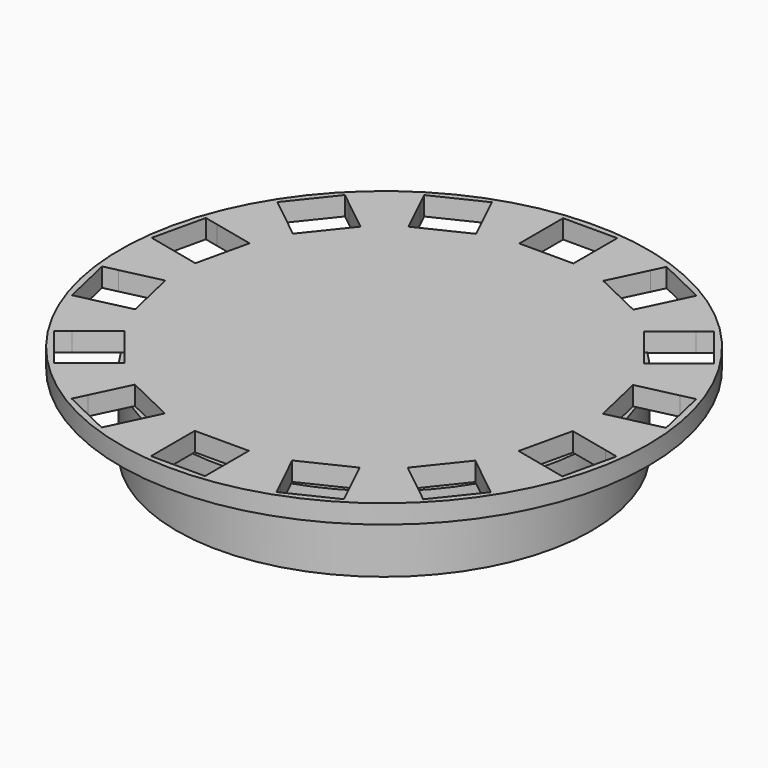
from build123d import *

# Parameters (mm, degrees)
F0_R     = 9
F1_DEPTH = 1
F3_R     = 11
F4_DEPTH = 4
F6_R     = 14
F7_DEPTH = 1


with BuildPart() as f1:
    # F0 (on Top) → F1 (new body)
    with BuildSketch(Plane.XY):
        Circle(F0_R)
    extrude(amount=F1_DEPTH)

    # F3 (on offset) → F4 (join)
    with BuildSketch(Plane.XY.offset(1)):
        Circle(F3_R)
    extrude(amount=F4_DEPTH)

    # F6 (on offset) → F7 (join)
    with BuildSketch(Plane.XY.offset(5)):
        Circle(F6_R)
        with BuildLine():
            ThreePointArc((12.91588, 1.476495), (12.978953, 0.739444), (13, 0))
            ThreePointArc((13, 0), (12.978953, -0.739444), (12.91588, -1.476495))
            Line((12.91588, -1.476495), (13.642398, -1.642317))
            Line((13.642398, -1.642317), (13.003951, -4.439538))
            Line((13.003951, -4.439538), (12.277433, -4.273715))
            ThreePointArc((12.277433, -4.273715), (11.712595, -5.640489), (10.996179, -6.934266))
            Line((10.996179, -6.934266), (11.578801, -7.398892))
            Line((11.578801, -7.398892), (9.789912, -9.642088))
            Line((9.789912, -9.642088), (9.20729, -9.177463))
            ThreePointArc((9.20729, -9.177463), (8.105367, -10.163809), (6.89855, -11.018621))
            Line((6.89855, -11.018621), (7.221881, -11.690024))
            Line((7.221881, -11.690024), (4.63686, -12.934905))
            Line((4.63686, -12.934905), (4.31353, -12.263501))
            ThreePointArc((4.31353, -12.263501), (2.892772, -12.674063), (1.434578, -12.920603))
            Line((1.434578, -12.920603), (1.434578, -13.665805))
            Line((1.434578, -13.665805), (-1.434578, -13.665805))
            Line((-1.434578, -13.665805), (-1.434578, -12.920603))
            ThreePointArc((-1.434578, -12.920603), (-2.892772, -12.674063), (-4.31353, -12.263501))
            Line((-4.31353, -12.263501), (-4.63686, -12.934905))
            Line((-4.63686, -12.934905), (-7.221881, -11.690024))
            Line((-7.221881, -11.690024), (-6.89855, -11.018621))
            ThreePointArc((-6.89855, -11.018621), (-8.105367, -10.163809), (-9.20729, -9.177463))
            Line((-9.20729, -9.177463), (-9.789912, -9.642088))
            Line((-9.789912, -9.642088), (-11.578801, -7.398892))
            Line((-11.578801, -7.398892), (-10.996179, -6.934266))
            ThreePointArc((-10.996179, -6.934266), (-11.712595, -5.640489), (-12.277433, -4.273715))
            Line((-12.277433, -4.273715), (-13.003951, -4.439538))
            Line((-13.003951, -4.439538), (-13.642398, -1.642317))
            Line((-13.642398, -1.642317), (-12.91588, -1.476495))
            ThreePointArc((-12.91588, -1.476495), (-13, 0), (-12.91588, 1.476495))
            Line((-12.91588, 1.476495), (-13.642398, 1.642317))
            Line((-13.642398, 1.642317), (-13.003951, 4.439538))
            Line((-13.003951, 4.439538), (-12.277433, 4.273715))
            ThreePointArc((-12.277433, 4.273715), (-11.712595, 5.640489), (-10.996179, 6.934266))
            Line((-10.996179, 6.934266), (-11.578801, 7.398892))
            Line((-11.578801, 7.398892), (-9.789912, 9.642088))
            Line((-9.789912, 9.642088), (-9.20729, 9.177463))
            ThreePointArc((-9.20729, 9.177463), (-8.105367, 10.163809), (-6.89855, 11.018621))
            Line((-6.89855, 11.018621), (-7.221881, 11.690024))
            Line((-7.221881, 11.690024), (-4.63686, 12.934905))
            Line((-4.63686, 12.934905), (-4.31353, 12.263501))
            ThreePointArc((-4.31353, 12.263501), (-2.892772, 12.674063), (-1.434578, 12.920603))
            Line((-1.434578, 12.920603), (-1.434578, 13.665805))
            Line((-1.434578, 13.665805), (1.434578, 13.665805))
            Line((1.434578, 13.665805), (1.434578, 12.920603))
            ThreePointArc((1.434578, 12.920603), (2.892772, 12.674063), (4.31353, 12.263501))
            Line((4.31353, 12.263501), (4.63686, 12.934905))
            Line((4.63686, 12.934905), (7.221881, 11.690024))
            Line((7.221881, 11.690024), (6.89855, 11.018621))
            ThreePointArc((6.89855, 11.018621), (8.105367, 10.163809), (9.20729, 9.177463))
            Line((9.20729, 9.177463), (9.789912, 9.642088))
            Line((9.789912, 9.642088), (11.578801, 7.398892))
            Line((11.578801, 7.398892), (10.996179, 6.934266))
            ThreePointArc((10.996179, 6.934266), (11.712595, 5.640489), (12.277433, 4.273715))
            Line((12.277433, 4.273715), (13.003951, 4.439538))
            Line((13.003951, 4.439538), (13.642398, 1.642317))
            Line((13.642398, 1.642317), (12.91588, 1.476495))
        make_face(mode=Mode.SUBTRACT)
        with BuildLine():
            ThreePointArc((12.91588, -1.476495), (12.978953, -0.739444), (13, 0))
            ThreePointArc((13, 0), (12.978953, 0.739444), (12.91588, 1.476495))
            Line((12.91588, 1.476495), (10.807824, 0.995345))
            Line((10.807824, 0.995345), (10.169377, 3.792565))
            Line((10.169377, 3.792565), (12.277433, 4.273715))
            ThreePointArc((12.277433, 4.273715), (11.712595, 5.640489), (10.996179, 6.934266))
            Line((10.996179, 6.934266), (9.30565, 5.586114))
            Line((9.30565, 5.586114), (7.51676, 7.82931))
            Line((7.51676, 7.82931), (9.20729, 9.177463))
            ThreePointArc((9.20729, 9.177463), (8.105367, 10.163809), (6.89855, 11.018621))
            Line((6.89855, 11.018621), (5.960377, 9.070485))
            Line((5.960377, 9.070485), (3.375356, 10.315365))
            Line((3.375356, 10.315365), (4.31353, 12.263501))
            ThreePointArc((4.31353, 12.263501), (2.892772, 12.674063), (1.434578, 12.920603))
            Line((1.434578, 12.920603), (1.434578, 10.758335))
            Line((1.434578, 10.758335), (-1.434578, 10.758335))
            Line((-1.434578, 10.758335), (-1.434578, 12.920603))
            ThreePointArc((-1.434578, 12.920603), (-2.892772, 12.674063), (-4.31353, 12.263501))
            Line((-4.31353, 12.263501), (-3.375356, 10.315365))
            Line((-3.375356, 10.315365), (-5.960377, 9.070485))
            Line((-5.960377, 9.070485), (-6.89855, 11.018621))
            ThreePointArc((-6.89855, 11.018621), (-8.105367, 10.163809), (-9.20729, 9.177463))
            Line((-9.20729, 9.177463), (-7.51676, 7.82931))
            Line((-7.51676, 7.82931), (-9.30565, 5.586114))
            Line((-9.30565, 5.586114), (-10.996179, 6.934266))
            ThreePointArc((-10.996179, 6.934266), (-11.712595, 5.640489), (-12.277433, 4.273715))
            Line((-12.277433, 4.273715), (-10.169377, 3.792565))
            Line((-10.169377, 3.792565), (-10.807824, 0.995345))
            Line((-10.807824, 0.995345), (-12.91588, 1.476495))
            ThreePointArc((-12.91588, 1.476495), (-13, 0), (-12.91588, -1.476495))
            Line((-12.91588, -1.476495), (-10.807824, -0.995345))
            Line((-10.807824, -0.995345), (-10.169377, -3.792565))
            Line((-10.169377, -3.792565), (-12.277433, -4.273715))
            ThreePointArc((-12.277433, -4.273715), (-11.712595, -5.640489), (-10.996179, -6.934266))
            Line((-10.996179, -6.934266), (-9.30565, -5.586114))
            Line((-9.30565, -5.586114), (-7.51676, -7.82931))
            Line((-7.51676, -7.82931), (-9.20729, -9.177463))
            ThreePointArc((-9.20729, -9.177463), (-8.105367, -10.163809), (-6.89855, -11.018621))
            Line((-6.89855, -11.018621), (-5.960377, -9.070485))
            Line((-5.960377, -9.070485), (-3.375356, -10.315365))
            Line((-3.375356, -10.315365), (-4.31353, -12.263501))
            ThreePointArc((-4.31353, -12.263501), (-2.892772, -12.674063), (-1.434578, -12.920603))
            Line((-1.434578, -12.920603), (-1.434578, -10.758335))
            Line((-1.434578, -10.758335), (1.434578, -10.758335))
            Line((1.434578, -10.758335), (1.434578, -12.920603))
            ThreePointArc((1.434578, -12.920603), (2.892772, -12.674063), (4.31353, -12.263501))
            Line((4.31353, -12.263501), (3.375356, -10.315365))
            Line((3.375356, -10.315365), (5.960377, -9.070485))
            Line((5.960377, -9.070485), (6.89855, -11.018621))
            ThreePointArc((6.89855, -11.018621), (8.105367, -10.163809), (9.20729, -9.177463))
            Line((9.20729, -9.177463), (7.51676, -7.82931))
            Line((7.51676, -7.82931), (9.30565, -5.586114))
            Line((9.30565, -5.586114), (10.996179, -6.934266))
            ThreePointArc((10.996179, -6.934266), (11.712595, -5.640489), (12.277433, -4.273715))
            Line((12.277433, -4.273715), (10.169377, -3.792565))
            Line((10.169377, -3.792565), (10.807824, -0.995345))
            Line((10.807824, -0.995345), (12.91588, -1.476495))
        make_face()
    extrude(amount=F7_DEPTH)


solid = f1.part
